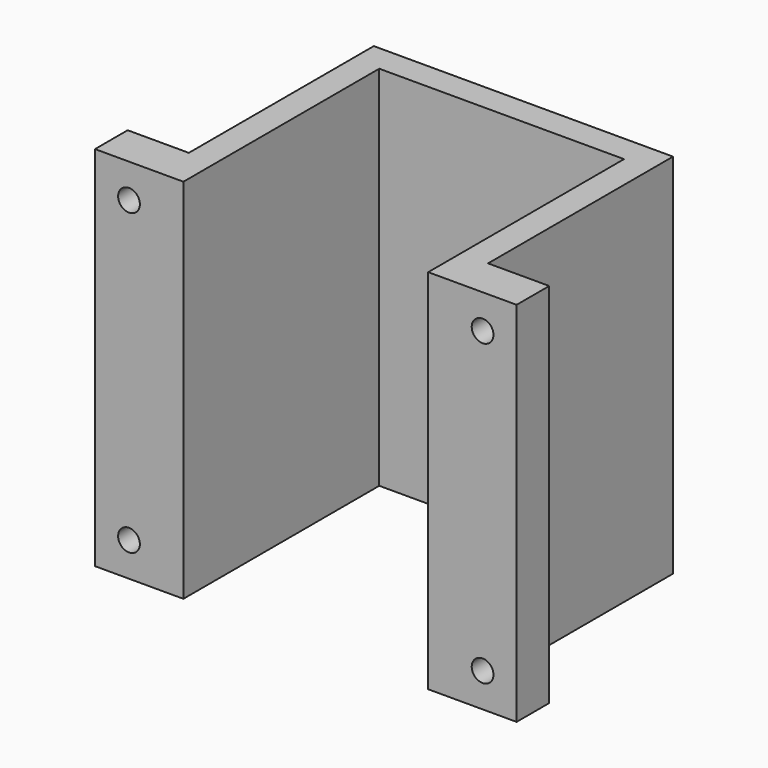
from build123d import *

# Parameters (mm, degrees)
PAD_DEPTH       = 54
SKETCH001_R     = 1.6
POCKET_DEPTH    = 6
SKETCH002_R     = 6.1
POCKET001_DEPTH = 5


with BuildPart() as part:
    # Sketch → Pad (new body)
    with BuildSketch(Plane.XY):
        Polygon((0, 0), (0, 6), (9, 6), (9, 40), (53, 40), (53, 6), (62, 6), (62, 0), (49, 0), (49, 36), (13, 36), (13, 0), align=None)
    extrude(amount=PAD_DEPTH)

    # Sketch001 (on Face8 of Pad) → Pocket (cut)
    with BuildSketch(Plane.XZ):
        with Locations((5, 5)):
            Circle(SKETCH001_R)
        with Locations((57, 5)):
            Circle(SKETCH001_R)
        with Locations((57, 49)):
            Circle(SKETCH001_R)
        with Locations((5, 49)):
            Circle(SKETCH001_R)
    extrude(amount=-POCKET_DEPTH, mode=Mode.SUBTRACT)

    # Sketch002 (on Face10 of Pocket) → Pocket001 (cut)
    with BuildSketch(Plane(origin=(0, 40, 0), x_dir=(-1, 0, 0), z_dir=(0, 1, 0))):
        with Locations((-31, 26)):
            Circle(SKETCH002_R)
    extrude(amount=-POCKET001_DEPTH, mode=Mode.SUBTRACT)


solid = part.part
